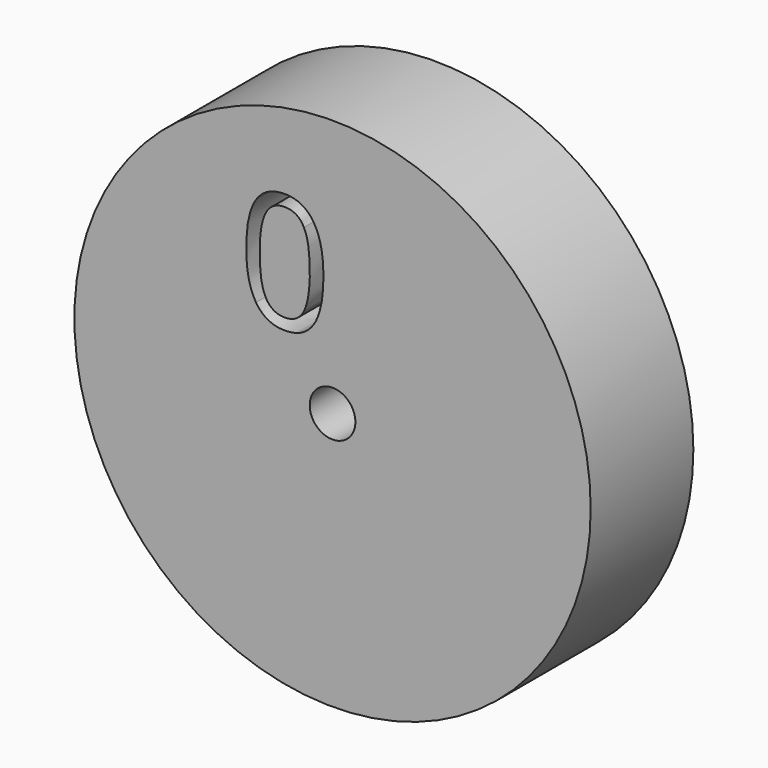
from build123d import *

# Parameters (mm, degrees)
F0_R     = 50.3
F0_R_2   = 4.45
F1_DEPTH = 25


with BuildPart() as f1:
    # F0 (on Front) → F1 (new body)
    with BuildSketch(Plane.XZ):
        Circle(F0_R)
        with BuildLine():
            Line((-20.1128664655, 13.9386828326), (-20.1128664655, 11.5442627879))
            Line((-20.1128664655, 11.5442627879), (-35.061813231, 11.5442627879))
            Line((-35.061813231, 11.5442627879), (-35.061813231, 13.7694306881))
            Line((-35.061813231, 13.7694306881), (-29.0732741172, 19.7878378275))
            add(Edge.make_bspline(
                [(-29.0732741172, 19.7878378275), (-26.3353717792, 22.5605861952), (-25.4642210353, 23.7428622048)],
                knots=[0, 0, 0, 1, 1, 1], degree=2))
            add(Edge.make_bspline(
                [(-25.4642210353, 23.7428622048), (-24.5930702913, 24.9251382144), (-24.1574949194, 26.0451891709)],
                knots=[0, 0, 0, 1, 1, 1], degree=2))
            add(Edge.make_bspline(
                [(-24.1574949194, 26.0451891709), (-23.7219195474, 27.1652401273), (-23.7219195474, 28.4545432283)],
                knots=[0, 0, 0, 1, 1, 1], degree=2))
            add(Edge.make_bspline(
                [(-23.7219195474, 28.4545432283), (-23.7219195474, 30.2764927841), (-24.8270364911, 31.3417856938)],
                knots=[0, 0, 0, 1, 1, 1], degree=2))
            add(Edge.make_bspline(
                [(-24.8270364911, 31.3417856938), (-25.9321534348, 32.4070786035), (-27.8934871097, 32.4070786035)],
                knots=[0, 0, 0, 1, 1, 1], degree=2))
            add(Edge.make_bspline(
                [(-27.8934871097, 32.4070786035), (-29.307240317, 32.4070786035), (-30.5766314009, 31.9391462039)],
                knots=[0, 0, 0, 1, 1, 1], degree=2))
            add(Edge.make_bspline(
                [(-30.5766314009, 31.9391462039), (-31.8460224849, 31.4712138044), (-33.3991598112, 30.2416467544)],
                knots=[0, 0, 0, 1, 1, 1], degree=2))
            Line((-33.3991598112, 30.2416467544), (-34.7681109802, 31.998882255))
            add(Edge.make_bspline(
                [(-34.7681109802, 31.998882255), (-31.6269902979, 34.6123344867), (-27.9233551352, 34.6123344867)],
                knots=[0, 0, 0, 1, 1, 1], degree=2))
            add(Edge.make_bspline(
                [(-27.9233551352, 34.6123344867), (-24.7175203976, 34.6123344867), (-22.8980598439, 32.972082086)],
                knots=[0, 0, 0, 1, 1, 1], degree=2))
            add(Edge.make_bspline(
                [(-22.8980598439, 32.972082086), (-21.0785992902, 31.3318296853), (-21.0785992902, 28.5640593218)],
                knots=[0, 0, 0, 1, 1, 1], degree=2))
            add(Edge.make_bspline(
                [(-21.0785992902, 28.5640593218), (-21.0785992902, 26.3986274727), (-22.2932323274, 24.282975666)],
                knots=[0, 0, 0, 1, 1, 1], degree=2))
            add(Edge.make_bspline(
                [(-22.2932323274, 24.282975666), (-23.5078653646, 22.1673238594), (-26.8331722043, 18.9316210963)],
                knots=[0, 0, 0, 1, 1, 1], degree=2))
            Line((-26.8331722043, 18.9316210963), (-31.8111764552, 14.0631329389))
            Line((-31.8111764552, 14.0631329389), (-31.8111764552, 13.9386828326))
            Line((-31.8111764552, 13.9386828326), (-20.1128664655, 13.9386828326))
        make_face(mode=Mode.SUBTRACT)
        with BuildLine():
            add(Edge.make_bspline(
                [(-3.695408446, 31.642954951), (-1.7738988051, 28.6387293856), (-1.7738988051, 22.9488705268)],
                knots=[0, 0, 0, 1, 1, 1], degree=2))
            add(Edge.make_bspline(
                [(-1.7738988051, 22.9488705268), (-1.7738988051, 17.0499354895), (-3.6331833929, 14.1402920048)],
                knots=[0, 0, 0, 1, 1, 1], degree=2))
            add(Edge.make_bspline(
                [(-3.6331833929, 14.1402920048), (-5.4924679806, 11.2306485201), (-9.3205532495, 11.2306485201)],
                knots=[0, 0, 0, 1, 1, 1], degree=2))
            add(Edge.make_bspline(
                [(-9.3205532495, 11.2306485201), (-12.9893423825, 11.2306485201), (-14.9033850169, 14.2099840643)],
                knots=[0, 0, 0, 1, 1, 1], degree=2))
            add(Edge.make_bspline(
                [(-14.9033850169, 14.2099840643), (-16.8174276514, 17.1893196085), (-16.8174276514, 22.9488705268)],
                knots=[0, 0, 0, 1, 1, 1], degree=2))
            add(Edge.make_bspline(
                [(-16.8174276514, 22.9488705268), (-16.8174276514, 28.8876295981), (-14.9656100701, 31.7674050573)],
                knots=[0, 0, 0, 1, 1, 1], degree=2))
            add(Edge.make_bspline(
                [(-14.9656100701, 31.7674050573), (-13.1137924887, 34.6471805164), (-9.3205532495, 34.6471805164)],
                knots=[0, 0, 0, 1, 1, 1], degree=2))
            add(Edge.make_bspline(
                [(-9.3205532495, 34.6471805164), (-5.6169180869, 34.6471805164), (-3.695408446, 31.642954951)],
                knots=[0, 0, 0, 1, 1, 1], degree=2))
        make_face(mode=Mode.SUBTRACT)
        Circle(F0_R_2, mode=Mode.SUBTRACT)
        with BuildLine():
            Line((10.9299680432, 34.2887642104), (10.9299680432, 11.5442627879))
            Line((10.9299680432, 11.5442627879), (8.4110978922, 11.5442627879))
            Line((8.4110978922, 11.5442627879), (8.4110978922, 27.7526446289))
            add(Edge.make_bspline(
                [(8.4110978922, 27.7526446289), (8.4110978922, 29.778692359), (8.5355479985, 31.5807298979)],
                knots=[0, 0, 0, 1, 1, 1], degree=2))
            add(Edge.make_bspline(
                [(8.5355479985, 31.5807298979), (8.2119777222, 31.2521816173), (7.8062703757, 30.8962543134)],
                knots=[0, 0, 0, 1, 1, 1], degree=2))
            add(Edge.make_bspline(
                [(7.8062703757, 30.8962543134), (7.4005630293, 30.5403270094), (4.1051242152, 27.8621607224)],
                knots=[0, 0, 0, 1, 1, 1], degree=2))
            Line((4.1051242152, 27.8621607224), (2.7361730462, 29.6343302358))
            Line((2.7361730462, 29.6343302358), (8.7545801855, 34.2887642104))
            Line((8.7545801855, 34.2887642104), (10.9299680432, 34.2887642104))
        make_face(mode=Mode.SUBTRACT)
        Polygon((25.3213783326, 11.5442627879), (22.4590258883, 11.5442627879), (31.8823879353, 31.9092781784), (19.4871573505, 31.9092781784), (19.4871573505, 34.2887642104), (34.6202902733, 34.2887642104), (34.6202902733, 32.217914442), align=None, mode=Mode.SUBTRACT)
        with BuildLine():
            Line((-35.061813231, 11.5442627879), (-20.1128664655, 11.5442627879))
            Line((-20.1128664655, 11.5442627879), (-20.1128664655, 13.9386828326))
            Line((-20.1128664655, 13.9386828326), (-31.8111764552, 13.9386828326))
            Line((-31.8111764552, 13.9386828326), (-31.8111764552, 14.0631329389))
            Line((-31.8111764552, 14.0631329389), (-26.8331722043, 18.9316210963))
            add(Edge.make_bspline(
                [(-22.2932323274, 24.282975666), (-23.5078653646, 22.1673238594), (-26.8331722043, 18.9316210963)],
                knots=[0, 0, 0, 1, 1, 1], degree=2))
            add(Edge.make_bspline(
                [(-21.0785992902, 28.5640593218), (-21.0785992902, 26.3986274727), (-22.2932323274, 24.282975666)],
                knots=[0, 0, 0, 1, 1, 1], degree=2))
            add(Edge.make_bspline(
                [(-22.8980598439, 32.972082086), (-21.0785992902, 31.3318296853), (-21.0785992902, 28.5640593218)],
                knots=[0, 0, 0, 1, 1, 1], degree=2))
            add(Edge.make_bspline(
                [(-27.9233551352, 34.6123344867), (-24.7175203976, 34.6123344867), (-22.8980598439, 32.972082086)],
                knots=[0, 0, 0, 1, 1, 1], degree=2))
            add(Edge.make_bspline(
                [(-34.7681109802, 31.998882255), (-31.6269902979, 34.6123344867), (-27.9233551352, 34.6123344867)],
                knots=[0, 0, 0, 1, 1, 1], degree=2))
            Line((-34.7681109802, 31.998882255), (-33.3991598112, 30.2416467544))
            add(Edge.make_bspline(
                [(-30.5766314009, 31.9391462039), (-31.8460224849, 31.4712138044), (-33.3991598112, 30.2416467544)],
                knots=[0, 0, 0, 1, 1, 1], degree=2))
            add(Edge.make_bspline(
                [(-27.8934871097, 32.4070786035), (-29.307240317, 32.4070786035), (-30.5766314009, 31.9391462039)],
                knots=[0, 0, 0, 1, 1, 1], degree=2))
            add(Edge.make_bspline(
                [(-24.8270364911, 31.3417856938), (-25.9321534348, 32.4070786035), (-27.8934871097, 32.4070786035)],
                knots=[0, 0, 0, 1, 1, 1], degree=2))
            add(Edge.make_bspline(
                [(-23.7219195474, 28.4545432283), (-23.7219195474, 30.2764927841), (-24.8270364911, 31.3417856938)],
                knots=[0, 0, 0, 1, 1, 1], degree=2))
            add(Edge.make_bspline(
                [(-24.1574949194, 26.0451891709), (-23.7219195474, 27.1652401273), (-23.7219195474, 28.4545432283)],
                knots=[0, 0, 0, 1, 1, 1], degree=2))
            add(Edge.make_bspline(
                [(-25.4642210353, 23.7428622048), (-24.5930702913, 24.9251382144), (-24.1574949194, 26.0451891709)],
                knots=[0, 0, 0, 1, 1, 1], degree=2))
            add(Edge.make_bspline(
                [(-29.0732741172, 19.7878378275), (-26.3353717792, 22.5605861952), (-25.4642210353, 23.7428622048)],
                knots=[0, 0, 0, 1, 1, 1], degree=2))
            Line((-29.0732741172, 19.7878378275), (-35.061813231, 13.7694306881))
            Line((-35.061813231, 13.7694306881), (-35.061813231, 11.5442627879))
        make_face()
        with BuildLine():
            add(Edge.make_bspline(
                [(-13.0366334228, 30.1595096842), (-14.2039754197, 27.911940765), (-14.2039754197, 22.9488705268)],
                knots=[0, 0, 0, 1, 1, 1], degree=2))
            add(Edge.make_bspline(
                [(-14.2039754197, 22.9488705268), (-14.2039754197, 17.9858002886), (-13.0366334228, 15.7208083545)],
                knots=[0, 0, 0, 1, 1, 1], degree=2))
            add(Edge.make_bspline(
                [(-13.0366334228, 15.7208083545), (-11.869291426, 13.4558164203), (-9.3205532495, 13.4558164203)],
                knots=[0, 0, 0, 1, 1, 1], degree=2))
            add(Edge.make_bspline(
                [(-9.3205532495, 13.4558164203), (-6.7369690433, 13.4558164203), (-5.579583055, 15.75067638)],
                knots=[0, 0, 0, 1, 1, 1], degree=2))
            add(Edge.make_bspline(
                [(-5.579583055, 15.75067638), (-4.4221970666, 18.0455363396), (-4.4221970666, 22.9488705268)],
                knots=[0, 0, 0, 1, 1, 1], degree=2))
            add(Edge.make_bspline(
                [(-4.4221970666, 22.9488705268), (-4.4221970666, 27.8472267097), (-5.579583055, 30.1271526566)],
                knots=[0, 0, 0, 1, 1, 1], degree=2))
            add(Edge.make_bspline(
                [(-5.579583055, 30.1271526566), (-6.7369690433, 32.4070786035), (-9.3205532495, 32.4070786035)],
                knots=[0, 0, 0, 1, 1, 1], degree=2))
            add(Edge.make_bspline(
                [(-9.3205532495, 32.4070786035), (-11.869291426, 32.4070786035), (-13.0366334228, 30.1595096842)],
                knots=[0, 0, 0, 1, 1, 1], degree=2))
        make_face()
        with BuildLine():
            Line((8.4110978922, 11.5442627879), (10.9299680432, 11.5442627879))
            Line((10.9299680432, 11.5442627879), (10.9299680432, 34.2887642104))
            Line((10.9299680432, 34.2887642104), (8.7545801855, 34.2887642104))
            Line((8.7545801855, 34.2887642104), (2.7361730462, 29.6343302358))
            Line((2.7361730462, 29.6343302358), (4.1051242152, 27.8621607224))
            add(Edge.make_bspline(
                [(7.8062703757, 30.8962543134), (7.4005630293, 30.5403270094), (4.1051242152, 27.8621607224)],
                knots=[0, 0, 0, 1, 1, 1], degree=2))
            add(Edge.make_bspline(
                [(8.5355479985, 31.5807298979), (8.2119777222, 31.2521816173), (7.8062703757, 30.8962543134)],
                knots=[0, 0, 0, 1, 1, 1], degree=2))
            add(Edge.make_bspline(
                [(8.4110978922, 27.7526446289), (8.4110978922, 29.778692359), (8.5355479985, 31.5807298979)],
                knots=[0, 0, 0, 1, 1, 1], degree=2))
            Line((8.4110978922, 27.7526446289), (8.4110978922, 11.5442627879))
        make_face()
        Polygon((31.8823879353, 31.9092781784), (22.4590258883, 11.5442627879), (25.3213783326, 11.5442627879), (34.6202902733, 32.217914442), (34.6202902733, 34.2887642104), (19.4871573505, 34.2887642104), (19.4871573505, 31.9092781784), align=None)
    extrude(amount=F1_DEPTH)


solid = f1.part
